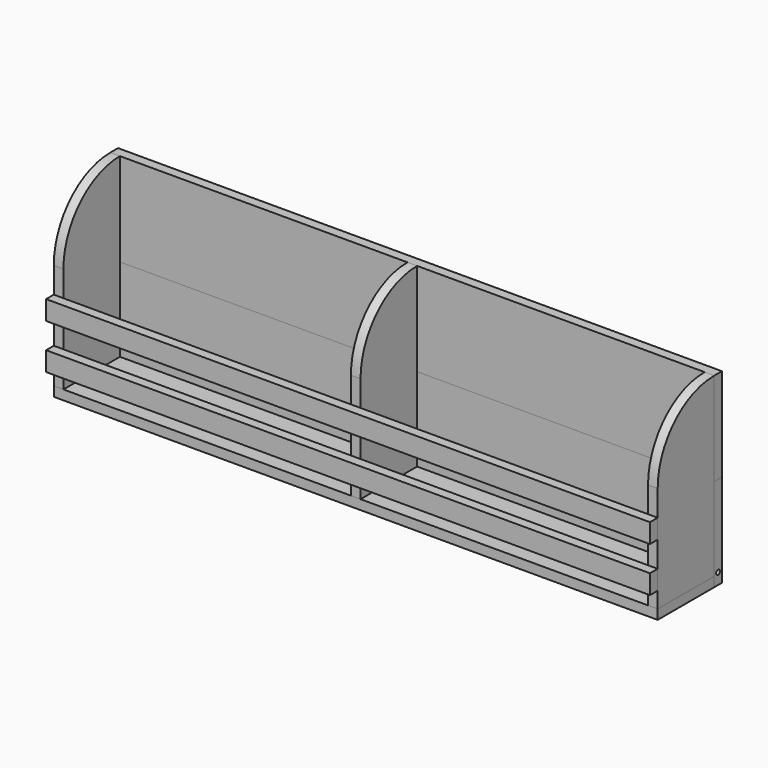
from build123d import *

# Parameters (mm, degrees)
F0_W      = 1193.8
F0_H      = 184.15
F1_DEPTH  = 19.05
F2_W      = 1193.8
F2_H      = 184.15
F3_DEPTH  = 19.05
F4_W      = 1193.8
F4_H      = 139.7
F5_DEPTH  = 19.05
F7_DEPTH  = 19.05
F9_DEPTH  = 19.05
F13_DEPTH = 9.525
F14_W     = 19.05
F14_H     = 38.1
F15_DEPTH = 1193.8
F16_W     = 19.05
F16_H     = 38.1
F17_DEPTH = 1193.8
F18_R     = 4.7625
F19_DEPTH = 25.4
F20_R     = 4.7625
F21_DEPTH = 25.4


with BuildPart() as f1:
    # F0 (on Front) → F1 (new body)
    with BuildSketch(Plane.XZ):
        with Locations((596.9, 92.075)):
            Rectangle(F0_W, F0_H)
    extrude(amount=F1_DEPTH)

    # F18 (on face) → F19 (cut)
    with BuildSketch(Plane.YZ.offset(1193.8)):
        with Locations((-9.525, 22.225)):
            Circle(F18_R)
    extrude(amount=-F19_DEPTH, mode=Mode.SUBTRACT)

    # F20 (on face) → F21 (cut)
    with BuildSketch(Plane(origin=(0, 0, 0), x_dir=(0, -1, 0), z_dir=(-1, 0, 0))):
        with Locations((9.525, 22.225)):
            Circle(F20_R)
    extrude(amount=-F21_DEPTH, mode=Mode.SUBTRACT)


with BuildPart() as f3:
    # F2 (on Front) → F3 (new body)
    with BuildSketch(Plane.XZ):
        with Locations((596.9, 276.225)):
            Rectangle(F2_W, F2_H)
    extrude(amount=F3_DEPTH)


with BuildPart() as f5:
    # F4 (on Top) → F5 (new body)
    with BuildSketch(Plane.XY):
        with Locations((596.9, -88.9)):
            Rectangle(F4_W, F4_H)
    extrude(amount=F5_DEPTH)


with BuildPart() as f7:
    # F6 (on face) → F7 (new body)
    with BuildSketch(Plane(origin=(0, 0, 0), x_dir=(0, -1, 0), z_dir=(-1, 0, 0))):
        with BuildLine():
            Line((19.05, 368.3), (19.05, 19.05))
            Line((19.05, 19.05), (158.75, 19.05))
            Line((158.75, 19.05), (158.75, 228.6))
            ThreePointArc((158.75, 228.6), (117.8328173318, 327.3828173318), (19.05, 368.3))
        make_face()
    extrude(amount=-F7_DEPTH)


with BuildPart() as f9:
    # F8 (on face) → F9 (new body)
    with BuildSketch(Plane.YZ.offset(1193.8)):
        with BuildLine():
            Line((-158.75, 228.6), (-158.75, 19.05))
            Line((-158.75, 19.05), (-19.05, 19.05))
            Line((-19.05, 19.05), (-19.05, 368.3))
            ThreePointArc((-19.05, 368.3), (-117.8328173318, 327.3828173318), (-158.75, 228.6))
        make_face()
    extrude(amount=-F9_DEPTH)


with BuildPart() as f13:
    # F12 (on plane+point) → F13 (new body, symmetric)
    with BuildSketch(Plane.YZ.offset(596.9)):
        with BuildLine():
            Line((-158.75, 19.05), (-19.05, 19.05))
            Line((-19.05, 19.05), (-19.05, 368.3))
            ThreePointArc((-19.05, 368.3), (-117.8328173318, 327.3828173318), (-158.75, 228.6))
            Line((-158.75, 228.6), (-158.75, 19.05))
        make_face()
    extrude(amount=F13_DEPTH, both=True)


with BuildPart() as f15:
    # F14 (on face) → F15 (new body, through all)
    with BuildSketch(Plane(origin=(0, 0, 0), x_dir=(0, -1, 0), z_dir=(-1, 0, 0))):
        with Locations((168.275, 69.85)):
            Rectangle(F14_W, F14_H)
    extrude(amount=-F15_DEPTH)


with BuildPart() as f17:
    # F16 (on face) → F17 (new body, through all)
    with BuildSketch(Plane(origin=(0, 0, 0), x_dir=(0, -1, 0), z_dir=(-1, 0, 0))):
        with Locations((168.275, 158.75)):
            Rectangle(F16_W, F16_H)
    extrude(amount=-F17_DEPTH)


solid = Compound([f1.part, f3.part, f5.part, f7.part, f9.part, f13.part, f15.part, f17.part])
